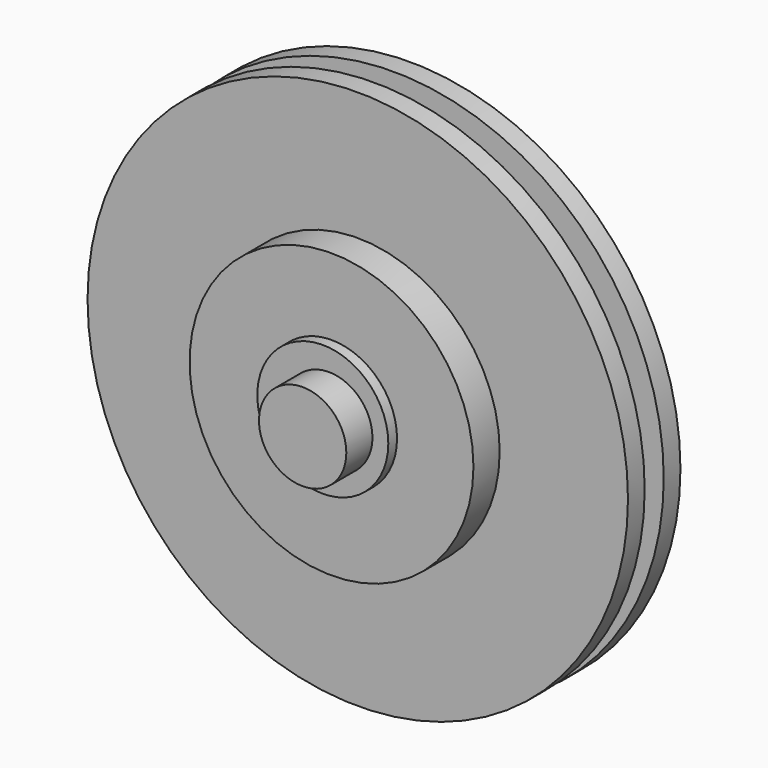
from build123d import *

# Parameters (mm, degrees)
F0_R     = 50.8
F1_DEPTH = 127


with BuildPart() as f1:
    # F0 (on Front) → F1 (new body, symmetric)
    with BuildSketch(Plane.XZ):
        Circle(F0_R)
    extrude(amount=F1_DEPTH, both=True)

    # F2 (on Top) → F3 (revolve)
    with BuildSketch(Plane.XY):
        Polygon((158.124238, 0), (33.664238, 0), (33.664238, -89.001633), (69.224238, -89.001633), (69.224238, -76.301633), (158.124238, -76.301633), (158.124238, -38.150817), (307.349473, -38.150817), (307.349473, -13.852087), (158.124238, -13.852087), align=None)
        Polygon((33.664238, 89.001633), (33.664238, 0), (158.124238, 0), (158.124238, 13.852087), (307.349473, 13.852087), (307.349473, 38.150817), (158.124238, 38.150817), (158.124238, 76.301633), (69.224238, 76.301633), (69.224238, 89.001633), align=None)
    revolve(axis=Axis((-6.975762, 53.070031, 0), (0, -1, 0)))


solid = f1.part
